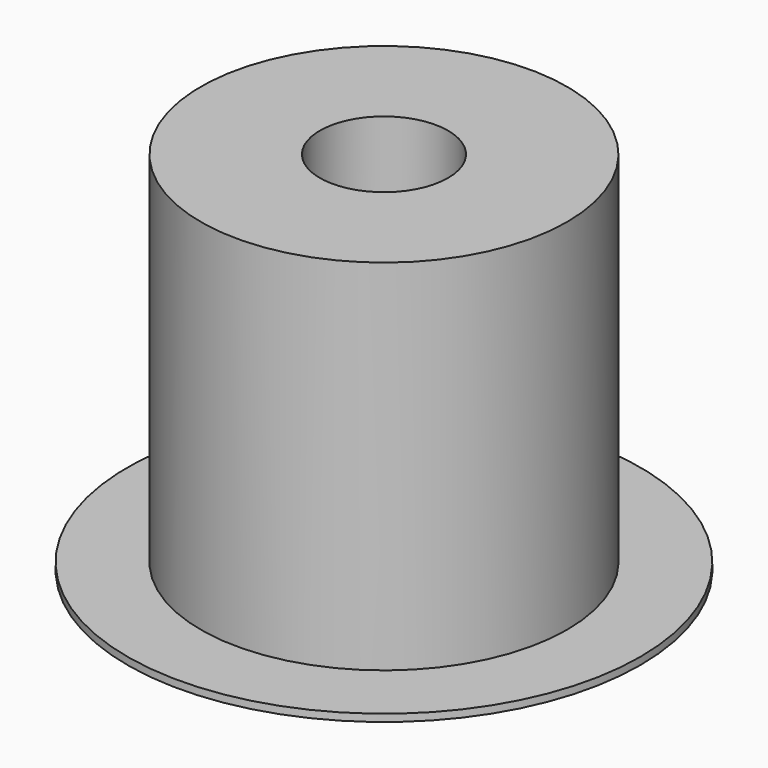
from build123d import *

# Parameters (mm, degrees)
F0_R     = 5
F0_R_2   = 1.75
F1_DEPTH = 10
F2_R     = 7
F2_R_2   = 5
F3_DEPTH = 0.2


with BuildPart() as f1:
    # F0 (on Top) → F1 (new body)
    with BuildSketch(Plane.XY):
        Circle(F0_R)
        Circle(F0_R_2, mode=Mode.SUBTRACT)
    extrude(amount=F1_DEPTH)

    # F2 (on face) → F3 (join)
    with BuildSketch(Plane(origin=(0, 0, 0), x_dir=(1, 0, 0), z_dir=(0, 0, -1))):
        Circle(F2_R)
        Circle(F2_R_2, mode=Mode.SUBTRACT)
    extrude(amount=-F3_DEPTH)


solid = f1.part
